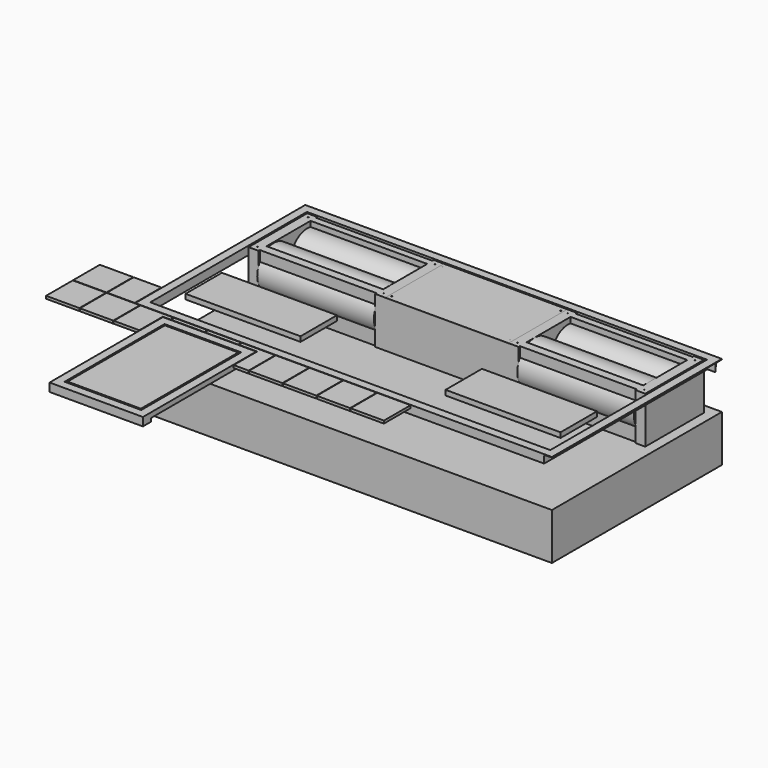
from build123d import *

# Parameters (mm, degrees)
F0_W      = 440
F0_H      = 730
F1_DEPTH  = 280
F0_W_2    = 2500
F0_H_2    = 1275
F0_W_3    = 2400
F0_H_3    = 1175
F0_W_4    = 2380
F0_H_4    = 595
F0_H_5    = 440
F0_W_5    = 690
F0_H_6    = 273
F2_DEPTH  = 280
F4_DEPTH  = 1225
F3_W      = 2400
F3_H      = 230
F5_DEPTH  = 50
F7_DEPTH  = 2500
F8_W      = 200
F8_H      = 200
F9_DEPTH  = 16
F8_W_2    = 166.5
F8_H_2    = 24
F10_DEPTH = 50
F11_R     = 2.5
F12_DEPTH = 1.5
F11_W     = 700
F11_H     = 330
F11_H_2   = 10
F13_DEPTH = 280
F15_DEPTH = 700
F14_R     = 125
F17_DEPTH = 700
F18_R     = 1
F18_2_R   = 1
F18_3_R   = 1
F18_4_R   = 1
F18_5_R   = 1
F18_6_R   = 1
F18_7_R   = 1
F18_8_R   = 1
F18_9_R   = 1
F18_10_R  = 1
F18_11_R  = 1
F18_12_R  = 1
F11_W_2   = 740
F11_H_3   = 440
F19_DEPTH = 4
F20_W     = 740
F20_H     = 440
F21_DEPTH = 4
F22_W     = 273
F22_H     = 250
F23_DEPTH = 2300
F24_W     = 730
F24_H     = 250
F25_DEPTH = 500


with BuildPart() as f1:
    # F0 (on Top) → F1 (new body)
    with BuildSketch(Plane.XY):
        with Locations((-780, 365)):
            Rectangle(F0_W, F0_H)
    extrude(amount=-F1_DEPTH)


with BuildPart() as f1b:
    # F0 (on Top) → F1, piece 2 (new body)
    with BuildSketch(Plane.XY):
        with Locations((0, 1457.5)):
            Rectangle(F0_W_2, F0_H_2)
        with Locations((0, 1457.5)):
            Rectangle(F0_W_3, F0_H_3, mode=Mode.SUBTRACT)
        with Locations((0, 1457.5)):
            Rectangle(F0_W_3, F0_H_3)
        with Locations((0, 1177.5)):
            Rectangle(F0_W_4, F0_H_4, mode=Mode.SUBTRACT)
        with Locations((0, 1815)):
            Rectangle(F0_W_4, F0_H_5, mode=Mode.SUBTRACT)
        with Locations((0, 1177.5)):
            Rectangle(F0_W_4, F0_H_4)
        with Locations((-780, 1177.5)):
            Rectangle(F0_W_5, F0_H_6, mode=Mode.SUBTRACT)
        with Locations((780, 1177.5)):
            Rectangle(F0_W_5, F0_H_6, mode=Mode.SUBTRACT)
        with Locations((0, 1815)):
            Rectangle(F0_W_4, F0_H_5)
        with Locations((-780, 1177.5)):
            Rectangle(F0_W_5, F0_H_6)
        with Locations((780, 1177.5)):
            Rectangle(F0_W_5, F0_H_6)
    extrude(amount=-F1_DEPTH)


with BuildPart() as f2:
    # F0 (on Top) → F2 (new body)
    with BuildSketch(Plane.XY):
        with Locations((0, 1815)):
            Rectangle(F0_W_4, F0_H_5)
    extrude(amount=F2_DEPTH)

    # F11 (on face) → F13 (cut)
    with BuildSketch(Plane.XY.offset(280)):
        with Locations((-780, 1820)):
            Rectangle(F11_W, F11_H)
        with Locations((-780, 1600)):
            Rectangle(F11_W, F11_H_2)
        with Locations((-780, 2030)):
            Rectangle(F11_W, F11_H_2)
        with Locations((780, 2030)):
            Rectangle(F11_W, F11_H_2)
        with Locations((780, 1600)):
            Rectangle(F11_W, F11_H_2)
        with Locations((780, 1820)):
            Rectangle(F11_W, F11_H)
    extrude(amount=-F13_DEPTH, mode=Mode.SUBTRACT)

    # F11 (on face) → F19 (cut)
    with BuildSketch(Plane.XY.offset(280)):
        with Locations((0, 1815)):
            Rectangle(F11_W_2, F11_H_3)
        with Locations((-355, 1625)):
            Circle(F11_R, mode=Mode.SUBTRACT)
        with Locations((355, 1625)):
            Circle(F11_R, mode=Mode.SUBTRACT)
        with Locations((-355, 2005)):
            Circle(F11_R, mode=Mode.SUBTRACT)
        with Locations((355, 2005)):
            Circle(F11_R, mode=Mode.SUBTRACT)
    extrude(amount=-F19_DEPTH, mode=Mode.SUBTRACT)


with BuildPart() as f2b:
    # F0 (on Top) → F2, piece 2 (new body)
    with BuildSketch(Plane.XY):
        with Locations((-780, 1177.5)):
            Rectangle(F0_W_5, F0_H_6)
    extrude(amount=F2_DEPTH)


with BuildPart() as f2c:
    # F0 (on Top) → F2, piece 3 (new body)
    with BuildSketch(Plane.XY):
        with Locations((780, 1177.5)):
            Rectangle(F0_W_5, F0_H_6)
    extrude(amount=F2_DEPTH)


with BuildPart() as f2d:
    # F0 (on Top) → F2, piece 4 (new body)
    with BuildSketch(Plane.XY):
        with Locations((-780, 365)):
            Rectangle(F0_W, F0_H)
    extrude(amount=F2_DEPTH)


with BuildPart() as f2e:
    # F0 (on Top) → F2, piece 5 (new body)
    with BuildSketch(Plane.XY):
        with Locations((0, 1457.5)):
            Rectangle(F0_W_2, F0_H_2)
        with Locations((0, 1457.5)):
            Rectangle(F0_W_3, F0_H_3, mode=Mode.SUBTRACT)
    extrude(amount=F2_DEPTH)

    # F3 (on face) → F4 (cut)
    with BuildSketch(Plane.XZ.offset(-820)):
        with BuildLine():
            Line((1200, 230), (1200, 0))
            Line((1200, 0), (1250, 0))
            Line((1250, 0), (1250, 276.7156576621))
            Line((1250, 276.7156576621), (1209, 276))
            ThreePointArc((1209, 276), (1205.4644660941, 274.5355339059), (1204, 271))
            Line((1204, 271), (1203.2843423379, 230))
            Line((1203.2843423379, 230), (1200, 230))
        make_face()
        with BuildLine():
            Line((-1250, 276.7156576621), (-1250, 0))
            Line((-1250, 0), (-1200, 0))
            Line((-1200, 0), (-1200, 230))
            Line((-1200, 230), (-1203.2843423379, 230))
            Line((-1203.2843423379, 230), (-1204, 271))
            ThreePointArc((-1204, 271), (-1205.4644660941, 274.5355339059), (-1209, 276))
            Line((-1209, 276), (-1250, 276.7156576621))
        make_face()
    extrude(amount=-F4_DEPTH, mode=Mode.SUBTRACT)

    # F3 (on face) → F5 (cut)
    with BuildSketch(Plane.XZ.offset(-820)):
        with Locations((0, 115)):
            Rectangle(F3_W, F3_H)
    extrude(amount=-F5_DEPTH, mode=Mode.SUBTRACT)

    # F6 (on face) → F7 (cut)
    with BuildSketch(Plane.YZ.offset(1250)):
        with BuildLine():
            Line((2048.284, 230), (2045, 230))
            Line((2045, 230), (2045, 0))
            Line((2045, 0), (2095, 0))
            Line((2095, 0), (2095, 230))
            Line((2095, 230), (2095, 271))
            Line((2095, 271), (2095, 276.7156576621))
            Line((2095, 276.7156576621), (2054, 276))
            ThreePointArc((2054, 276), (2050.4644660941, 274.5355339059), (2049, 271))
            Line((2049, 271), (2048.284, 230))
        make_face()
    extrude(amount=-F7_DEPTH, mode=Mode.SUBTRACT)


with BuildPart() as f9:
    # F8 (on face) → F9 (new body)
    with BuildSketch(Plane.XY.offset(280)):
        with Locations((-1522.5, 920)):
            Rectangle(F8_W, F8_H)
    extrude(amount=-F9_DEPTH)


with BuildPart() as f9b:
    # F8 (on face) → F9, piece 2 (new body)
    with BuildSketch(Plane.XY.offset(280)):
        with Locations((-1336.25, 920)):
            Rectangle(F8_W_2, F8_H)
    extrude(amount=-F9_DEPTH)


with BuildPart() as f9c:
    # F8 (on face) → F9, piece 3 (new body)
    with BuildSketch(Plane.XY.offset(280)):
        with Locations((-1522.5, 717)):
            Rectangle(F8_W, F8_H)
    extrude(amount=-F9_DEPTH)


with BuildPart() as f9d:
    # F8 (on face) → F9, piece 4 (new body)
    with BuildSketch(Plane.XY.offset(280)):
        with Locations((-1319.5, 717)):
            Rectangle(F8_W, F8_H)
    extrude(amount=-F9_DEPTH)


with BuildPart() as f9e:
    # F8 (on face) → F9, piece 5 (new body)
    with BuildSketch(Plane.XY.offset(280)):
        Polygon((-1016.5, 793), (-1016.5, 817), (-1216.5, 817), (-1216.5, 617), (-1063, 617), (-1063, 793), align=None)
    extrude(amount=-F9_DEPTH)


with BuildPart() as f9f:
    # F8 (on face) → F9, piece 6 (new body)
    with BuildSketch(Plane.XY.offset(280)):
        with Locations((-913.5, 805)):
            Rectangle(F8_W, F8_H_2)
    extrude(amount=-F9_DEPTH)


with BuildPart() as f9g:
    # F8 (on face) → F9, piece 7 (new body)
    with BuildSketch(Plane.XY.offset(280)):
        with Locations((-710.5, 805)):
            Rectangle(F8_W, F8_H_2)
    extrude(amount=-F9_DEPTH)


with BuildPart() as f9h:
    # F8 (on face) → F9, piece 8 (new body)
    with BuildSketch(Plane.XY.offset(280)):
        Polygon((-407.5, 617), (-407.5, 817), (-607.5, 817), (-607.5, 793), (-497, 793), (-497, 617), align=None)
    extrude(amount=-F9_DEPTH)


with BuildPart() as f9i:
    # F8 (on face) → F9, piece 9 (new body)
    with BuildSketch(Plane.XY.offset(280)):
        with Locations((-304.5, 717)):
            Rectangle(F8_W, F8_H)
    extrude(amount=-F9_DEPTH)


with BuildPart() as f9j:
    # F8 (on face) → F9, piece 10 (new body)
    with BuildSketch(Plane.XY.offset(280)):
        with Locations((-101.5, 717)):
            Rectangle(F8_W, F8_H)
    extrude(amount=-F9_DEPTH)


with BuildPart() as f9k:
    # F8 (on face) → F9, piece 11 (new body)
    with BuildSketch(Plane.XY.offset(280)):
        with Locations((101.5, 717)):
            Rectangle(F8_W, F8_H)
    extrude(amount=-F9_DEPTH)


with BuildPart() as f9l:
    # F8 (on face) → F9, piece 12 (new body)
    with BuildSketch(Plane.XY.offset(280)):
        with Locations((304.5, 717)):
            Rectangle(F8_W, F8_H)
    extrude(amount=-F9_DEPTH)


with BuildPart() as f10:
    # F8 (on face) → F10 (new body)
    with BuildSketch(Plane.XY.offset(280)):
        Polygon((-1010, 790), (-1060, 790), (-1060, 740), (-1060, -10), (-1060, -60), (-550, -60), (-500, -60), (-500, -10), (-500, 740), (-500, 790), (-550, 790), align=None)
        Polygon((-1010, -10), (-1010, 740), (-607.5, 740), (-550, 740), (-550, -10), align=None, mode=Mode.SUBTRACT)
    extrude(amount=-F10_DEPTH)


with BuildPart() as f12:
    # F11 (on face) → F12 (new body)
    with BuildSketch(Plane.XY.offset(280)):
        with Locations((355, 2005)):
            Circle(F11_R)
    extrude(amount=F12_DEPTH)

    # F18#5
    f18_5_edges = [f12.edges().sort_by_distance(p)[0] for p in [
        (352.5, 2005, 281.5),
    ]]
    fillet(f18_5_edges, radius=F18_5_R)


with BuildPart() as f12b:
    # F11 (on face) → F12, piece 2 (new body)
    with BuildSketch(Plane.XY.offset(280)):
        with Locations((400, 2005)):
            Circle(F11_R)
    extrude(amount=F12_DEPTH)

    # F18#6
    f18_6_edges = [f12b.edges().sort_by_distance(p)[0] for p in [
        (397.5, 2005, 281.5),
    ]]
    fillet(f18_6_edges, radius=F18_6_R)


with BuildPart() as f12c:
    # F11 (on face) → F12, piece 3 (new body)
    with BuildSketch(Plane.XY.offset(280)):
        with Locations((355, 1625)):
            Circle(F11_R)
    extrude(amount=F12_DEPTH)

    # F18#7
    f18_7_edges = [f12c.edges().sort_by_distance(p)[0] for p in [
        (352.5, 1625, 281.5),
    ]]
    fillet(f18_7_edges, radius=F18_7_R)


with BuildPart() as f12d:
    # F11 (on face) → F12, piece 4 (new body)
    with BuildSketch(Plane.XY.offset(280)):
        with Locations((400, 1625)):
            Circle(F11_R)
    extrude(amount=F12_DEPTH)

    # F18#8
    f18_8_edges = [f12d.edges().sort_by_distance(p)[0] for p in [
        (397.5, 1625, 281.5),
    ]]
    fillet(f18_8_edges, radius=F18_8_R)


with BuildPart() as f12e:
    # F11 (on face) → F12, piece 5 (new body)
    with BuildSketch(Plane.XY.offset(280)):
        with Locations((1160, 1625)):
            Circle(F11_R)
    extrude(amount=F12_DEPTH)

    # F18#9
    f18_9_edges = [f12e.edges().sort_by_distance(p)[0] for p in [
        (1157.5, 1625, 281.5),
    ]]
    fillet(f18_9_edges, radius=F18_9_R)


with BuildPart() as f12f:
    # F11 (on face) → F12, piece 6 (new body)
    with BuildSketch(Plane.XY.offset(280)):
        with Locations((1160, 2005)):
            Circle(F11_R)
    extrude(amount=F12_DEPTH)

    # F18#10
    f18_10_edges = [f12f.edges().sort_by_distance(p)[0] for p in [
        (1157.5, 2005, 281.5),
    ]]
    fillet(f18_10_edges, radius=F18_10_R)


with BuildPart() as f12g:
    # F11 (on face) → F12, piece 7 (new body)
    with BuildSketch(Plane.XY.offset(280)):
        with Locations((-400, 2005)):
            Circle(F11_R)
    extrude(amount=F12_DEPTH)

    # F18
    f18_edges = [f12g.edges().sort_by_distance(p)[0] for p in [
        (-402.5, 2005, 281.5),
    ]]
    fillet(f18_edges, radius=F18_R)


with BuildPart() as f12h:
    # F11 (on face) → F12, piece 8 (new body)
    with BuildSketch(Plane.XY.offset(280)):
        with Locations((-355, 2005)):
            Circle(F11_R)
    extrude(amount=F12_DEPTH)

    # F18#2
    f18_2_edges = [f12h.edges().sort_by_distance(p)[0] for p in [
        (-357.5, 2005, 281.5),
    ]]
    fillet(f18_2_edges, radius=F18_2_R)


with BuildPart() as f12i:
    # F11 (on face) → F12, piece 9 (new body)
    with BuildSketch(Plane.XY.offset(280)):
        with Locations((-355, 1625)):
            Circle(F11_R)
    extrude(amount=F12_DEPTH)

    # F18#4
    f18_4_edges = [f12i.edges().sort_by_distance(p)[0] for p in [
        (-357.5, 1625, 281.5),
    ]]
    fillet(f18_4_edges, radius=F18_4_R)


with BuildPart() as f12j:
    # F11 (on face) → F12, piece 10 (new body)
    with BuildSketch(Plane.XY.offset(280)):
        with Locations((-400, 1625)):
            Circle(F11_R)
    extrude(amount=F12_DEPTH)

    # F18#3
    f18_3_edges = [f12j.edges().sort_by_distance(p)[0] for p in [
        (-402.5, 1625, 281.5),
    ]]
    fillet(f18_3_edges, radius=F18_3_R)


with BuildPart() as f12k:
    # F11 (on face) → F12, piece 11 (new body)
    with BuildSketch(Plane.XY.offset(280)):
        with Locations((-1160, 2005)):
            Circle(F11_R)
    extrude(amount=F12_DEPTH)

    # F18#11
    f18_11_edges = [f12k.edges().sort_by_distance(p)[0] for p in [
        (-1162.5, 2005, 281.5),
    ]]
    fillet(f18_11_edges, radius=F18_11_R)


with BuildPart() as f12l:
    # F11 (on face) → F12, piece 12 (new body)
    with BuildSketch(Plane.XY.offset(280)):
        with Locations((-1160, 1625)):
            Circle(F11_R)
    extrude(amount=F12_DEPTH)

    # F18#12
    f18_12_edges = [f12l.edges().sort_by_distance(p)[0] for p in [
        (-1162.5, 1625, 281.5),
    ]]
    fillet(f18_12_edges, radius=F18_12_R)


with BuildPart() as f15:
    # F14 (on face) → F15 (new body)
    with BuildSketch(Plane(origin=(-430, 0, 0), x_dir=(0, -1, 0), z_dir=(-1, 0, 0))):
        with BuildLine():
            ThreePointArc((-1655, 262.574763486), (-1835, 150.3250418828), (-1655, 38.0753202796))
            Line((-1655, 38.0753202796), (-1655, 262.574763486))
        make_face()
        with BuildLine():
            Line((-1655, 262.574763486), (-1655, 38.0753202796))
            ThreePointArc((-1655, 38.0753202796), (-1603.933982822, 84.1812591062), (-1585, 150.3250418828))
            ThreePointArc((-1585, 150.3250418828), (-1603.933982822, 216.4688246594), (-1655, 262.574763486))
        make_face()
    extrude(amount=F15_DEPTH)


with BuildPart() as f15b:
    # F14 (on face) → F15, piece 2 (new body)
    with BuildSketch(Plane(origin=(-430, 0, 0), x_dir=(0, -1, 0), z_dir=(-1, 0, 0))):
        with Locations((-1960, 125.3250418828)):
            Circle(F14_R)
    extrude(amount=F15_DEPTH)


with BuildPart() as f17:
    # F16 (on face) → F17 (new body)
    with BuildSketch(Plane.YZ.offset(430)):
        with BuildLine():
            ThreePointArc((1844.9994429452, 149.6194294518), (1844.9998607362, 149.8097145221), (1845, 150))
            ThreePointArc((1845, 150), (1585.6263697326, 162.7461284882), (1842.5005570548, 124.6305705482))
            ThreePointArc((1842.5005570548, 124.6305705482), (1843.1079441993, 137.1892055801), (1844.9994429452, 149.6194294518))
        make_face()
        with BuildLine():
            ThreePointArc((1844.9994429452, 149.6194294518), (1843.1079441993, 137.1892055801), (1842.5005570548, 124.6305705482))
            ThreePointArc((1842.5005570548, 124.6305705482), (1844.3548347273, 137.0645165273), (1844.9994429452, 149.6194294518))
        make_face()
        with BuildLine():
            ThreePointArc((1844.9994429452, 149.6194294518), (1844.3548347273, 137.0645165273), (1842.5005570548, 124.6305705482))
            ThreePointArc((1842.5005570548, 124.6305705482), (1965.1847149359, 2.5001392638), (2087.5, 125))
            ThreePointArc((2087.5, 125), (1977.3729899536, 246.873537405), (1844.9994429452, 149.6194294518))
        make_face()
    extrude(amount=F17_DEPTH)


with BuildPart() as f21:
    # F20 (on face) → F21 (new body)
    with BuildSketch(Plane.XY.offset(276)):
        with Locations((0, 1815)):
            Rectangle(F20_W, F20_H)
    extrude(amount=F21_DEPTH)


with BuildPart() as f23_tool:
    # F22 (on face) → F23 (new body)
    with BuildSketch(Plane(origin=(-1125, 0, 0), x_dir=(0, -1, 0), z_dir=(-1, 0, 0))):
        with Locations((-1177.5, 125)):
            Rectangle(F22_W, F22_H)
    extrude(amount=-F23_DEPTH)


with BuildPart() as f2b_1:
    add(f2b.part)

    # F23: cut by f23_tool
    add(f23_tool.part, mode=Mode.SUBTRACT)


with BuildPart() as f2c_1:
    add(f2c.part)

    # F23: cut by f23_tool
    add(f23_tool.part, mode=Mode.SUBTRACT)


with BuildPart() as f25_tool:
    # F24 (on face) → F25 (new body)
    with BuildSketch(Plane(origin=(-1000, 0, 0), x_dir=(0, -1, 0), z_dir=(-1, 0, 0))):
        with Locations((-365, 125)):
            Rectangle(F24_W, F24_H)
    extrude(amount=-F25_DEPTH)


with BuildPart() as f2d_1:
    add(f2d.part)

    # F25: cut by f25_tool
    add(f25_tool.part, mode=Mode.SUBTRACT)


with BuildPart() as f10_1:
    add(f10.part)

    # F25: cut by f25_tool
    add(f25_tool.part, mode=Mode.SUBTRACT)


solid = Compound([f1b.part, f2.part, f2e.part, f9.part, f9b.part, f9c.part, f9d.part, f9e.part, f9f.part, f9g.part, f9h.part, f9i.part, f9j.part, f9k.part, f9l.part, f12.part, f12b.part, f12c.part, f12d.part, f12e.part, f12f.part, f12g.part, f12h.part, f12i.part, f12j.part, f12k.part, f12l.part, f15.part, f15b.part, f17.part, f21.part, f2b_1.part, f2c_1.part, f2d_1.part, f10_1.part])
